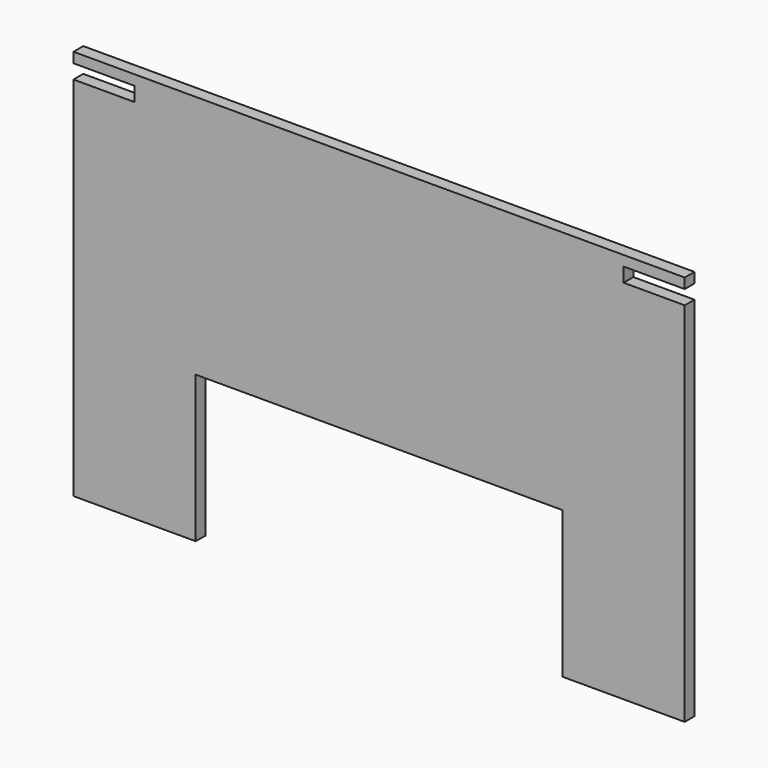
from build123d import *

# Parameters (mm, degrees)
F0_W     = 15
F0_H     = 2.5
F1_DEPTH = 3


with BuildPart() as f1:
    # F0 (on Front) → F1 (new body)
    with BuildSketch(Plane.XZ):
        Polygon((54.065418, -36), (84.065418, -36), (84.065418, 54), (69.065418, 54), (69.065418, 57.5), (84.065418, 57.5), (84.065418, 60), (-50.934582, 60), (-50.934582, 57.5), (-50.934582, 54), (-65.934582, 54), (-65.934582, -36), (-35.934582, -36), (-35.934582, 0), (54.065418, 0), align=None)
        with Locations((-58.434582, 58.75)):
            Rectangle(F0_W, F0_H)
    extrude(amount=F1_DEPTH)


solid = f1.part
